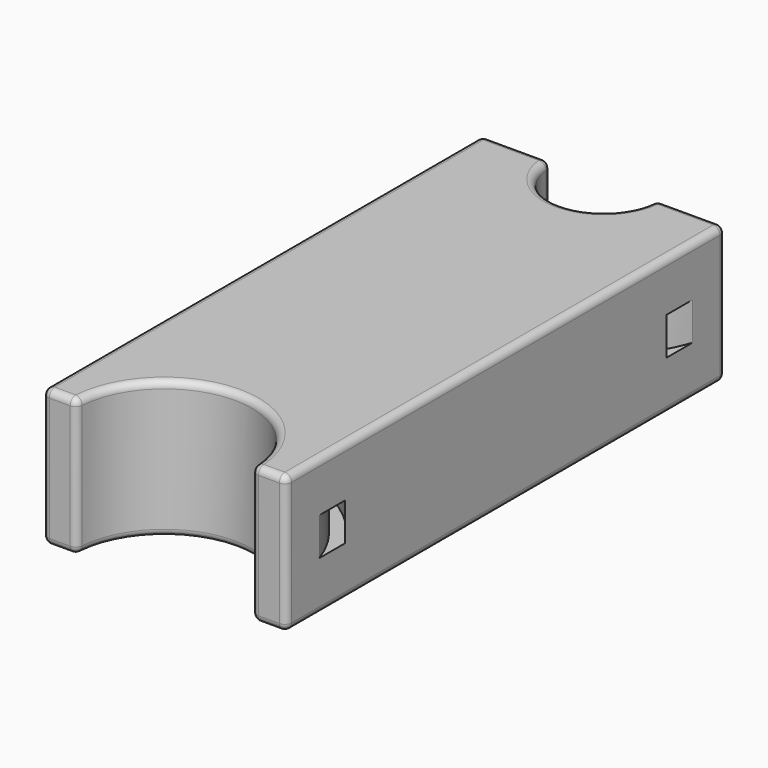
from build123d import *

# Parameters (mm, degrees)
PAD_DEPTH   = 20
SKETCH002_W = 2
SKETCH002_H = 5.5
SKETCH004_W = 2
SKETCH004_H = 5.5
FILLET_R    = 1


with BuildPart() as part:
    # Sketch → Pad (new body)
    with BuildSketch(Plane.XY):
        with BuildLine():
            Line((0, 0), (5, 0))
            ThreePointArc((30.5, 0), (17.75, 12.75), (5, 0))
            Line((30.5, 0), (35.5, 0))
            Line((35.5, 0), (35.5, 80))
            Line((35.5, 80), (25.5, 80))
            ThreePointArc((10, 80), (17.75, 72.25), (25.5, 80))
            Line((10, 80), (0, 80))
            Line((0, 80), (0, 0))
        make_face()
    extrude(amount=PAD_DEPTH)

    # SubtractivePipe: sweep along a path in Sketch001
    with BuildLine(Plane.XY.offset(10)) as subtractivepipe_path:
        CenterArc((17.75, 0), 20, 0, 360)
    # Sketch002 → SubtractivePipe (sweep, cut)
    with BuildSketch(Plane.XZ):
        with Locations((37.5, 10)):
            Rectangle(SKETCH002_W, SKETCH002_H)
    sweep(path=subtractivepipe_path.line, mode=Mode.SUBTRACT)

    # SubtractivePipe001: sweep along a path in Sketch003
    with BuildLine(Plane.XY.offset(10)) as subtractivepipe001_path:
        CenterArc((17.75, 80), 20, 0, 360)
    # Sketch004 → SubtractivePipe001 (sweep, cut)
    with BuildSketch(Plane.XZ.offset(-80)):
        with Locations((37.5, 10)):
            Rectangle(SKETCH004_W, SKETCH004_H)
    sweep(path=subtractivepipe001_path.line, mode=Mode.SUBTRACT)

    # Fillet
    fillet_edges = [part.edges().sort_by_distance(p)[0] for p in [
        (35.5, 40, 20),
        (33, 0, 20),
        (17.75, 12.75, 20),
        (2.5, 0, 20),
        (0, 40, 20),
        (30.5, 80, 20),
        (17.75, 72.25, 20),
        (5, 80, 20),
        (0, 80, 10),
        (35.5, 80, 10),
        (35.5, 0, 10),
        (35.5, 40, 0),
        (5, 80, 0),
        (30.5, 80, 0),
        (17.75, 72.25, 0),
        (25.5, 80, 10),
        (10, 80, 10),
        (0, 40, 0),
        (0, 0, 10),
        (2.5, 0, 0),
        (17.75, 12.75, 0),
        (33, 0, 0),
        (30.5, 0, 10),
        (5, 0, 10),
    ]]
    fillet(fillet_edges, radius=FILLET_R)


solid = part.part
